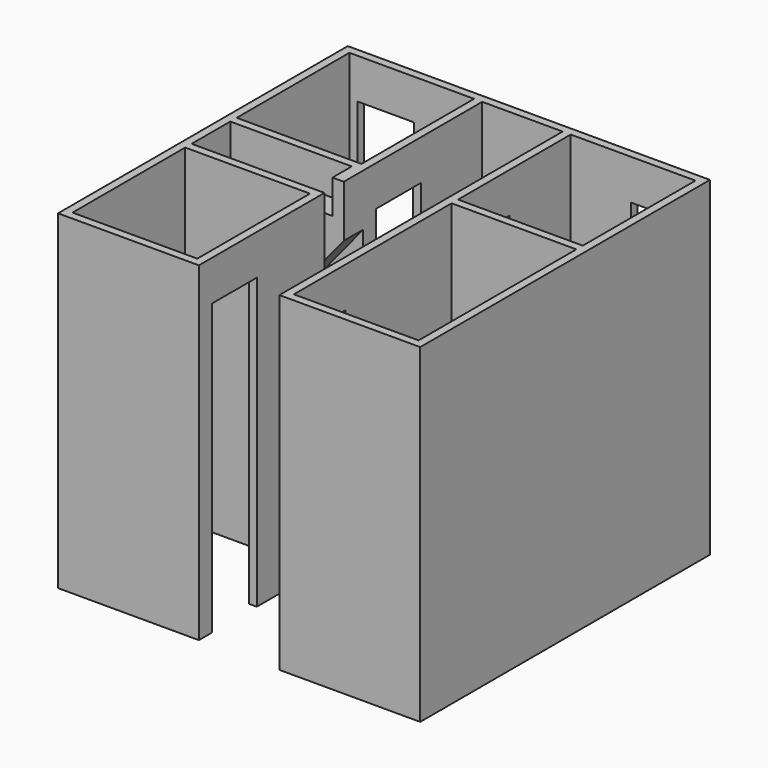
from build123d import *

# Parameters (mm, degrees)
F0_W          = 393.7
F0_H          = 25.4
F0_W_2        = 25.4
F0_H_2        = 241.3
F0_H_3        = 444.5
F0_H_4        = 152.4
F0_H_5        = 12.7
F1_DEPTH      = 1016
F1_DEPTH_BACK = 25.4
F0_W_3        = 190.5
F0_W_4        = 254
F0_H_6        = 419.1
F0_H_7        = 622.3
F2_W          = 177.8
F2_H          = 25.4
F2_W_2        = 25.4
F2_H_2        = 177.8
F3_DEPTH      = 127
F5_W          = 152.4
F5_H          = 127
F6_DEPTH      = 76.2
F10_W         = 14.2358661652
F10_H         = 119.38
F11_DEPTH     = 76.2
F12_DEPTH     = 76.2


with BuildPart() as f1:
    # F0 (on Top) → F1 (new body, two sides)
    with BuildSketch(Plane.XY) as f1_sk:
        with Locations((-349.25, -88.9)):
            Rectangle(F0_W, F0_H)
        with Locations((-139.7, -88.9)):
            Rectangle(F0_W_2, F0_H)
        with Locations((-139.7, -222.25)):
            Rectangle(F0_W_2, F0_H_2)
        with Locations((-558.8, -323.85)):
            Rectangle(F0_W_2, F0_H_3)
        with Locations((-558.8, -88.9)):
            Rectangle(F0_W_2, F0_H)
        with Locations((-558.8, 0)):
            Rectangle(F0_W_2, F0_H_4)
        with Locations((-558.8, 82.55)):
            Rectangle(F0_W_2, F0_H_5)
        with Locations((-558.8, 95.25)):
            Rectangle(F0_W_2, F0_H_5)
        with Locations((-558.8, 323.85)):
            Rectangle(F0_W_2, F0_H_3)
        with Locations((-558.8, 558.8)):
            Rectangle(F0_W_2, F0_H)
        with Locations((-533.4, 558.8)):
            Rectangle(F0_W_2, F0_H)
        Polygon((-152.4, 101.6), (-127, 101.6), (-127, 103.0518114567), (-127, 127), (-152.4, 127), align=None)
        Polygon((-152.4, 88.9), (-152.4, 76.2), (-127, 76.2), (-127, 101.6), (-152.4, 101.6), align=None)
        with Locations((-349.25, 95.25)):
            Rectangle(F0_W, F0_H_5)
        with Locations((-349.25, 82.55)):
            Rectangle(F0_W, F0_H_5)
        with Locations((-139.7, -533.4)):
            Rectangle(F0_W_2, F0_H)
        with Locations((-349.25, -558.8)):
            Rectangle(F0_W, F0_H)
        with Locations((-558.8, -558.8)):
            Rectangle(F0_W_2, F0_H)
        with Locations((-139.7, -558.8)):
            Rectangle(F0_W_2, F0_H)
    extrude(amount=F1_DEPTH)
    extrude(f1_sk.sketch, amount=-F1_DEPTH_BACK)



with BuildPart() as f1b:
    # F0 (on Top) → F1, piece 2 (new body, two sides)
    with BuildSketch(Plane.XY) as f1_2_sk:
        with Locations((-247.65, 558.8)):
            Rectangle(F0_W_3, F0_H)
        with Locations((-139.7, 558.8)):
            Rectangle(F0_W_2, F0_H)
        with Locations((-139.7, 425.45)):
            Rectangle(F0_W_2, F0_H_2)
        with Locations((247.65, 558.8)):
            Rectangle(F0_W_3, F0_H)
        with Locations((139.7, 558.8)):
            Rectangle(F0_W_2, F0_H)
        with Locations((139.7, 425.45)):
            Rectangle(F0_W_2, F0_H_2)
        with Locations((0, 558.8)):
            Rectangle(F0_W_4, F0_H)
    extrude(amount=F1_DEPTH)
    extrude(f1_2_sk.sketch, amount=-F1_DEPTH_BACK)


with BuildPart() as f1c:
    # F0 (on Top) → F1, piece 3 (new body, two sides)
    with BuildSketch(Plane.XY) as f1_3_sk:
        with Locations((349.25, 82.55)):
            Rectangle(F0_W, F0_H_5)
        Polygon((152.4, 88.9), (546.1, 88.9), (546.1, 101.6), (152.4, 101.6), (152.4, 101.5882790089), align=None)
        Polygon((127, 101.6), (127, 88.9), (152.4, 88.9), (152.4, 101.5882790089), (152.4, 101.6), align=None)
        with Locations((139.7, 114.3)):
            Rectangle(F0_W_2, F0_H)
        with Locations((139.7, 82.55)):
            Rectangle(F0_W_2, F0_H_5)
        with Locations((139.7, -133.35)):
            Rectangle(F0_W_2, F0_H_6)
        with Locations((139.7, -533.4)):
            Rectangle(F0_W_2, F0_H)
        with Locations((139.7, -558.8)):
            Rectangle(F0_W_2, F0_H)
        with Locations((349.25, -558.8)):
            Rectangle(F0_W, F0_H)
        with Locations((558.8, -234.95)):
            Rectangle(F0_W_2, F0_H_7)
        with Locations((558.8, -558.8)):
            Rectangle(F0_W_2, F0_H)
        with Locations((558.8, 95.25)):
            Rectangle(F0_W_2, F0_H_5)
        with Locations((558.8, 82.55)):
            Rectangle(F0_W_2, F0_H_5)
        with Locations((558.8, 323.85)):
            Rectangle(F0_W_2, F0_H_3)
        with Locations((558.8, 558.8)):
            Rectangle(F0_W_2, F0_H)
        with Locations((533.4, 558.8)):
            Rectangle(F0_W_2, F0_H)
    extrude(amount=F1_DEPTH)
    extrude(f1_3_sk.sketch, amount=-F1_DEPTH_BACK)


with BuildPart() as f1_1:
    add(f1.part)

    add(f1b.part)  # F3 merges F1b

    add(f1c.part)  # F3 merges F1c
    # F2 (on face) → F3 (join)
    with BuildSketch(Plane.XY.offset(1016)):
        with Locations((-431.8, 558.8)):
            Rectangle(F2_W, F2_H)
        with Locations((-139.7, -431.8)):
            Rectangle(F2_W_2, F2_H_2)
        with Locations((139.7, -431.8)):
            Rectangle(F2_W_2, F2_H_2)
        with Locations((431.8, 558.8)):
            Rectangle(F2_W, F2_H)
        with Locations((139.7, 215.9)):
            Rectangle(F2_W_2, F2_H_2)
        with Locations((-139.7, 215.9)):
            Rectangle(F2_W_2, F2_H_2)
    extrude(amount=-F3_DEPTH)

    # F4: union 

    # F5 (on face) → F6 (join)
    with BuildSketch(Plane.YZ.offset(-546.1)):
        with Locations((0, 495.3)):
            Rectangle(F5_W, F5_H)
    extrude(amount=F6_DEPTH)

    # F10 (on offset) → F11 (join, through all)
    with BuildSketch(Plane.XZ):
        Polygon((-469.9, 678.18), (-469.9, 558.8), (-393.7, 558.8), (-393.7, 525.1186495463), (-127, 851.7339229584), (-127, 1016), (-162.56, 1016), (-162.56, 909.32), (-264.16, 909.32), (-264.16, 795.02), (-365.76, 795.02), (-365.76, 678.18), align=None)
        with Locations((-477.0179330826, 618.49)):
            Rectangle(F10_W, F10_H)
        Polygon((-393.7, 558.8), (-469.9, 558.8), (-469.9, 431.8), (-393.7, 525.1186495463), align=None)
    extrude(amount=-F11_DEPTH)

    # F10 (on offset) → F12 (join, through all)
    with BuildSketch(Plane.XZ):
        Polygon((-393.7, 525.1186495463), (-469.9, 431.8), (-469.9, 413.5754568294), (-127, -25.4), (-127, 5.08), (-127, 106.68), (-203.2, 106.68), (-203.2, 243.84), (-317.5, 243.84), (-317.5, 378.46), (-393.7, 378.46), (-393.7, 431.8), align=None)
        Polygon((-393.7, 525.1186495463), (-469.9, 431.8), (-469.9, 413.5754568294), (-127, -25.4), (-127, 5.08), (-127, 106.68), (-203.2, 106.68), (-203.2, 243.84), (-317.5, 243.84), (-317.5, 378.46), (-393.7, 378.46), (-393.7, 431.8), align=None)
        Polygon((-393.7, 558.8), (-469.9, 558.8), (-469.9, 431.8), (-393.7, 525.1186495463), align=None)
    extrude(amount=F12_DEPTH)


solid = f1_1.part
